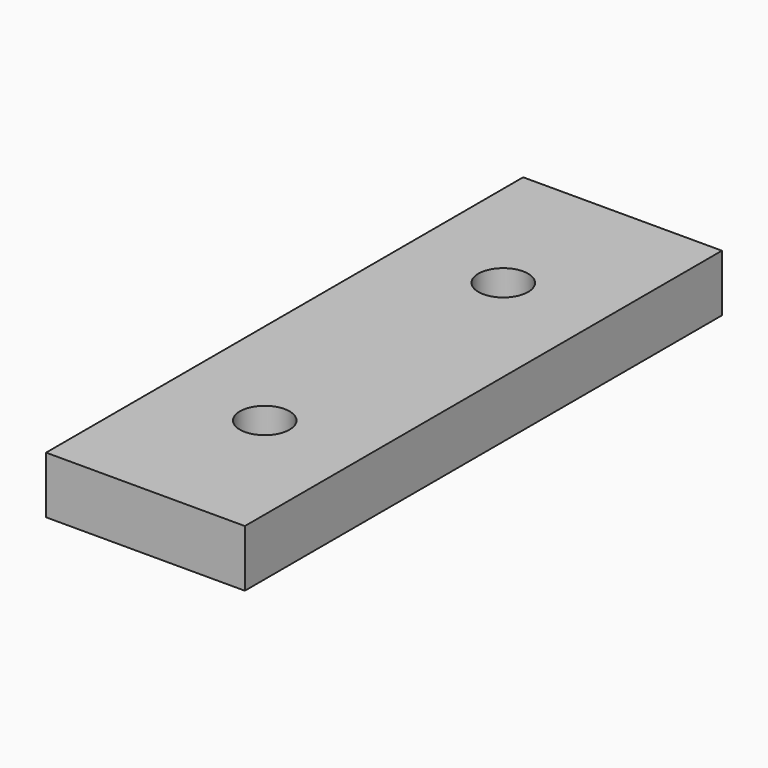
from build123d import *

# Parameters (mm, degrees)
F1_DEPTH = 7.27782
F3_D     = 6.35
F5_D     = 6.35


with BuildPart() as f1:
    # F0 (on Top) → F1 (new body)
    with BuildSketch(Plane.XY):
        Polygon((0, -76.2), (0, 0), (-12.7, 0), (-25.4, 0), (-25.4, -76.2), (-12.7, -76.2), align=None)
    extrude(amount=F1_DEPTH)

    # F3 (through all)
    with Locations(Plane(origin=(0, 0, 0), x_dir=(1, 0, 0), z_dir=(0, 0, -1))):
        with Locations((-12.7, 57.15)):
            Hole(F3_D / 2)

    # F5 (through all)
    with Locations(Plane(origin=(0, 0, 0), x_dir=(1, 0, 0), z_dir=(0, 0, -1))):
        with Locations((-12.7, 19.05)):
            Hole(F5_D / 2)


solid = f1.part
